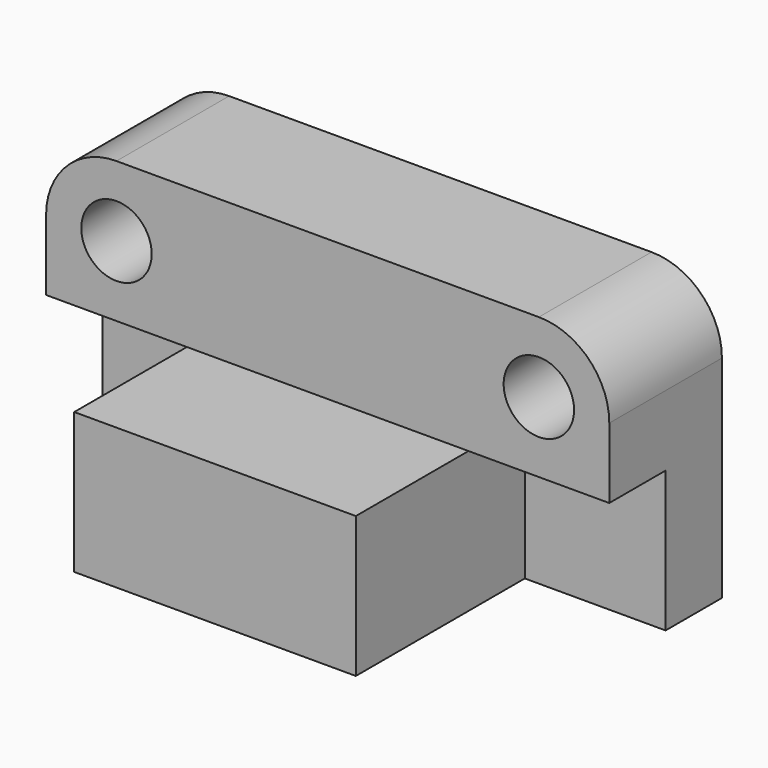
from build123d import *

# Parameters (mm, degrees)
F1_DEPTH = 50.8
F2_W     = 203.2
F2_H     = 50.8
F3_DEPTH = 25.4
F4_W     = 101.6
F4_H     = 50.8
F5_DEPTH = 76.2
F6_R     = 12.7
F7_DEPTH = 50.8


with BuildPart() as f1:
    # F0 (on Front) → F1 (new body)
    with BuildSketch(Plane.XZ):
        with BuildLine():
            Line((-203.2, 0), (0, 0))
            Line((0, 0), (0, 76.2))
            ThreePointArc((0, 76.2), (-7.439488, 94.160512), (-25.4, 101.6))
            Line((-25.4, 101.6), (-177.8, 101.6))
            ThreePointArc((-177.8, 101.6), (-195.760512, 94.160512), (-203.2, 76.2))
            Line((-203.2, 76.2), (-203.2, 0))
        make_face()
    extrude(amount=F1_DEPTH)

    # F2 (on face) → F3 (cut)
    with BuildSketch(Plane.XZ.offset(50.8)):
        with Locations((-101.6, 25.4)):
            Rectangle(F2_W, F2_H)
    extrude(amount=-F3_DEPTH, mode=Mode.SUBTRACT)

    # F4 (on face) → F5 (join)
    with BuildSketch(Plane.XZ.offset(25.4)):
        with Locations((-101.600002, 25.4)):
            Rectangle(F4_W, F4_H)
    extrude(amount=F5_DEPTH)

    # F6 (on face) → F7 (cut)
    with BuildSketch(Plane.XZ.offset(50.8)):
        with Locations((-177.8, 76.2)):
            Circle(F6_R)
        with Locations((-25.4, 76.2)):
            Circle(F6_R)
    extrude(amount=-F7_DEPTH, mode=Mode.SUBTRACT)


solid = f1.part
